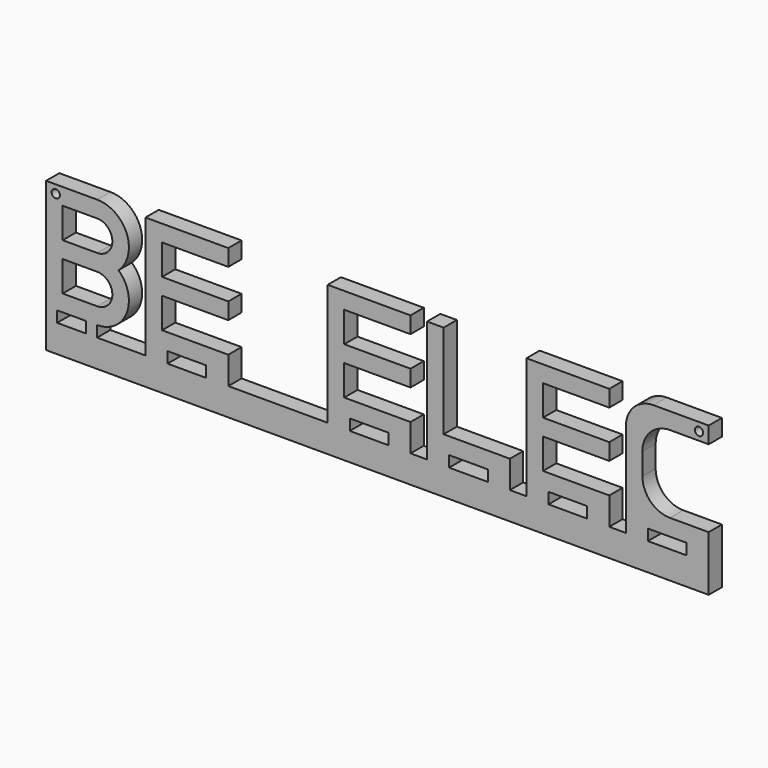
from build123d import *

# Parameters (mm, degrees)
F0_W     = 7
F0_H     = 2
F0_R     = 0.75
F1_DEPTH = 3
F2_R     = 5


with BuildPart() as f1:
    # F0 (on Front) → F1 (new body)
    with BuildSketch(Plane.XZ):
        with BuildLine():
            Line((-60, 0), (-60, -5))
            Line((-60, -5), (60, -5))
            Line((60, -5), (60, 0))
            Line((60, 0), (60, 2))
            Line((60, 2), (60, 5))
            Line((60, 5), (48, 5))
            Line((48, 5), (48, 6.289098))
            Line((48, 6.289098), (48, 9.289098))
            Line((48, 9.289098), (48, 19))
            Line((48, 19), (60, 19))
            Line((60, 19), (60, 22))
            Line((60, 22), (48, 22))
            Line((48, 22), (45, 22))
            Line((45, 22), (45, 2))
            Line((45, 2), (45, 0))
            Line((45, 0), (42, 0))
            Line((42, 0), (42, 2))
            Line((42, 2), (42, 5))
            Line((42, 5), (30, 5))
            Line((30, 5), (30, 10.5))
            Line((30, 10.5), (42, 10.5))
            Line((42, 10.5), (42, 13.5))
            Line((42, 13.5), (30, 13.5))
            Line((30, 13.5), (30, 19))
            Line((30, 19), (42, 19))
            Line((42, 19), (42, 22))
            Line((42, 22), (30, 22))
            Line((30, 22), (27, 22))
            Line((27, 22), (27, 2))
            Line((27, 2), (27, 0))
            Line((27, 0), (24, 0))
            Line((24, 0), (24, 2))
            Line((24, 2), (24, 5))
            Line((24, 5), (12, 5))
            Line((12, 5), (12, 10.5))
            Line((12, 10.5), (12, 13.5))
            Line((12, 13.5), (12, 19))
            Line((12, 19), (12, 22))
            Line((12, 22), (9, 22))
            Line((9, 22), (9, 2))
            Line((9, 2), (9, 0))
            Line((9, 0), (6, 0))
            Line((6, 0), (6, 2))
            Line((6, 2), (6, 5))
            Line((6, 5), (-6, 5))
            Line((-6, 5), (-6, 10.5))
            Line((-6, 10.5), (6, 10.5))
            Line((6, 10.5), (6, 13.5))
            Line((6, 13.5), (-6, 13.5))
            Line((-6, 13.5), (-6, 19))
            Line((-6, 19), (6, 19))
            Line((6, 19), (6, 22))
            Line((6, 22), (-6, 22))
            Line((-6, 22), (-9, 22))
            Line((-9, 22), (-9, 2))
            Line((-9, 2), (-9, 0))
            Line((-9, 0), (-27, 0))
            Line((-27, 0), (-27, 2))
            Line((-27, 2), (-27, 5))
            Line((-27, 5), (-39, 5))
            Line((-39, 5), (-39, 10.5))
            Line((-39, 10.5), (-27, 10.5))
            Line((-27, 10.5), (-27, 13.5))
            Line((-27, 13.5), (-39, 13.5))
            Line((-39, 13.5), (-39, 19))
            Line((-39, 19), (-27, 19))
            Line((-27, 19), (-27, 22))
            Line((-27, 22), (-39, 22))
            Line((-39, 22), (-42, 22))
            Line((-42, 22), (-42, 2))
            Line((-42, 2), (-42, 0))
            Line((-42, 0), (-43.5, 0))
            Line((-43.5, 0), (-45, 0))
            Line((-45, 0), (-49, 0))
            Line((-49, 0), (-50.75, 0))
            Line((-50.75, 0), (-50.75, 2))
            ThreePointArc((-50.75, 2), (-45.388097, 5.673344), (-46.877017, 12))
            ThreePointArc((-46.877017, 12), (-45.388097, 18.326656), (-50.75, 22))
            Line((-50.75, 22), (-60, 22))
            Line((-60, 22), (-60, 2))
            Line((-60, 2), (-60, 0))
        make_face()
        Polygon((-52.75, 0), (-56, 0), (-58, 0), (-58, 2), (-56, 2), (-52.75, 2), align=None, mode=Mode.SUBTRACT)
        with Locations((-34.5, 1)):
            Rectangle(F0_W, F0_H, mode=Mode.SUBTRACT)
        with Locations((-1.5, 1)):
            Rectangle(F0_W, F0_H, mode=Mode.SUBTRACT)
        with BuildLine():
            Line((-57, 10.5), (-50.75, 10.5))
            ThreePointArc((-50.75, 10.5), (-48, 7.75), (-50.75, 5))
            Line((-50.75, 5), (-57, 5))
            Line((-57, 5), (-57, 10.5))
        make_face(mode=Mode.SUBTRACT)
        with Locations((16.5, 1)):
            Rectangle(F0_W, F0_H, mode=Mode.SUBTRACT)
        with Locations((34.5, 1)):
            Rectangle(F0_W, F0_H, mode=Mode.SUBTRACT)
        with Locations((52.5, 1)):
            Rectangle(F0_W, F0_H, mode=Mode.SUBTRACT)
        with BuildLine():
            Line((-57, 19), (-50.75, 19))
            ThreePointArc((-50.75, 19), (-48, 16.25), (-50.75, 13.5))
            Line((-50.75, 13.5), (-57, 13.5))
            Line((-57, 13.5), (-57, 19))
        make_face(mode=Mode.SUBTRACT)
        with Locations((-58.25, 20.5)):
            Circle(F0_R, mode=Mode.SUBTRACT)
        with Locations((58.25, 20.5)):
            Circle(F0_R, mode=Mode.SUBTRACT)
    extrude(amount=F1_DEPTH)

    # F2
    f2_edges = [f1.edges().sort_by_distance(p)[0] for p in [
        (48, -1.5, 19),
        (48, -1.5, 5),
        (45, -1.5, 22),
    ]]
    fillet(f2_edges, radius=F2_R)


solid = f1.part
